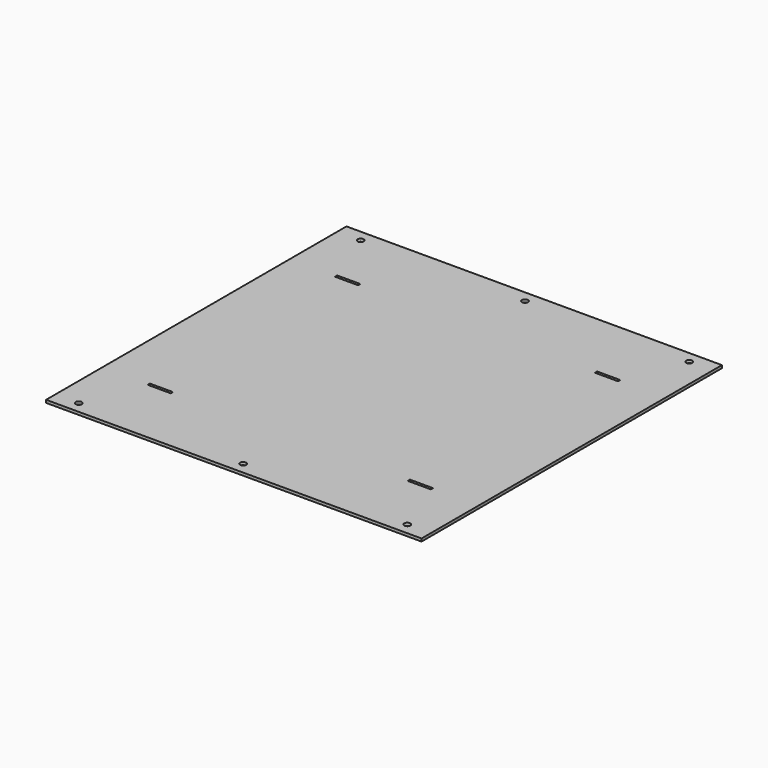
from build123d import *

# Parameters (mm, degrees)
F0_W     = 406.4
F0_H     = 406.4
F1_DEPTH = 3
F3_D     = 6.6
F4_W     = 25
F4_H     = 3
F5_DEPTH = 25


with BuildPart() as f1:
    # F0 (on Top) → F1 (new body)
    with BuildSketch(Plane.XY):
        with Locations((-38.4776114106, 7.145750549)):
            Rectangle(F0_W, F0_H)
    extrude(amount=F1_DEPTH)

    # F3 (through all)
    with Locations(Plane.XY.offset(3)):
        with Locations((-216.2776114106, 197.845750549), (-38.4776114106, 197.845750549), (139.3223885894, 197.845750549), (139.3223885894, -183.554249451), (-38.4776114106, -183.554249451), (-216.2776114106, -183.554249451)):
            Hole(F3_D / 2)

    # F4 (on face) → F5 (cut)
    with BuildSketch(Plane.XY.offset(3)):
        with Locations((-179.1776114106, 133.845750549)):
            Rectangle(F4_W, F4_H)
        with Locations((102.2223885894, 133.845750549)):
            Rectangle(F4_W, F4_H)
        with Locations((-179.1776114106, -119.554249451)):
            Rectangle(F4_W, F4_H)
        with Locations((102.2223885894, -119.554249451)):
            Rectangle(F4_W, F4_H)
    extrude(amount=-F5_DEPTH, mode=Mode.SUBTRACT)


solid = f1.part
